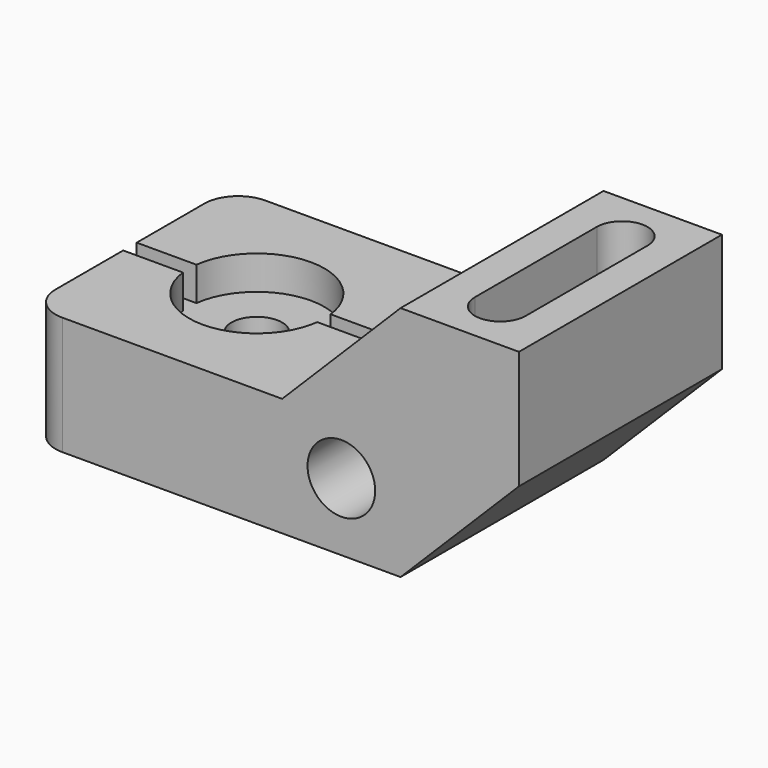
from build123d import *

# Parameters (mm, degrees)
F1_DEPTH       = 76.2
F2_R           = 10.16
F3_R           = 10.16
F4_DEPTH       = 76.201
F6_D           = 15.24
F6_START       = 35.56
F6_CBORE_D     = 40.64
F6_CBORE_DEPTH = 10.16
F8_DEPTH       = 27.94
F10_DEPTH      = 10.16


with BuildPart() as f1:
    # F0 (on Front) → F1 (new body)
    with BuildSketch(Plane.XZ):
        Polygon((0, 35.56), (0, 0), (111.76, 0), (147.32, 35.56), (147.32, 71.12), (111.76, 71.12), (76.2, 35.56), align=None)
    extrude(amount=F1_DEPTH)

    # F2
    f2_edges = [f1.edges().sort_by_distance(p)[0] for p in [
        (0, 0, 17.78),
        (0, -76.2, 17.78),
    ]]
    fillet(f2_edges, radius=F2_R)

    # F3 (on face) → F4 (cut, through all)
    with BuildSketch(Plane.XZ.offset(76.2)):
        with Locations((93.98, 20.32)):
            Circle(F3_R)
    extrude(amount=-F4_DEPTH, mode=Mode.SUBTRACT)

    # F6 (through all)
    # its depths count from where the whole tool has entered the part; down to there all is cleared
    with Locations(Plane.XY.offset(71.12).offset(-F6_START)):
        with Locations((38.1, -38.1)):
            CounterBoreHole(F6_D / 2, F6_CBORE_D / 2, F6_CBORE_DEPTH)

    # F7 (on face) → F8 (cut)
    with BuildSketch(Plane.XY.offset(71.12)):
        with BuildLine():
            ThreePointArc((137.16, -15.24), (129.54, -7.62), (121.92, -15.24))
            Line((121.92, -15.24), (121.92, -60.96))
            ThreePointArc((121.92, -60.96), (129.54, -68.58), (137.16, -60.96))
            Line((137.16, -60.96), (137.16, -15.24))
        make_face()
    extrude(amount=-F8_DEPTH, mode=Mode.SUBTRACT)

    # F9 (on face) → F10 (cut)
    with BuildSketch(Plane.XY.offset(35.56)):
        Polygon((0, -35.56), (0, -38.1), (0, -40.64), (76.2, -40.64), (76.2, -38.1), (76.2, -35.56), align=None)
    extrude(amount=-F10_DEPTH, mode=Mode.SUBTRACT)


solid = f1.part
